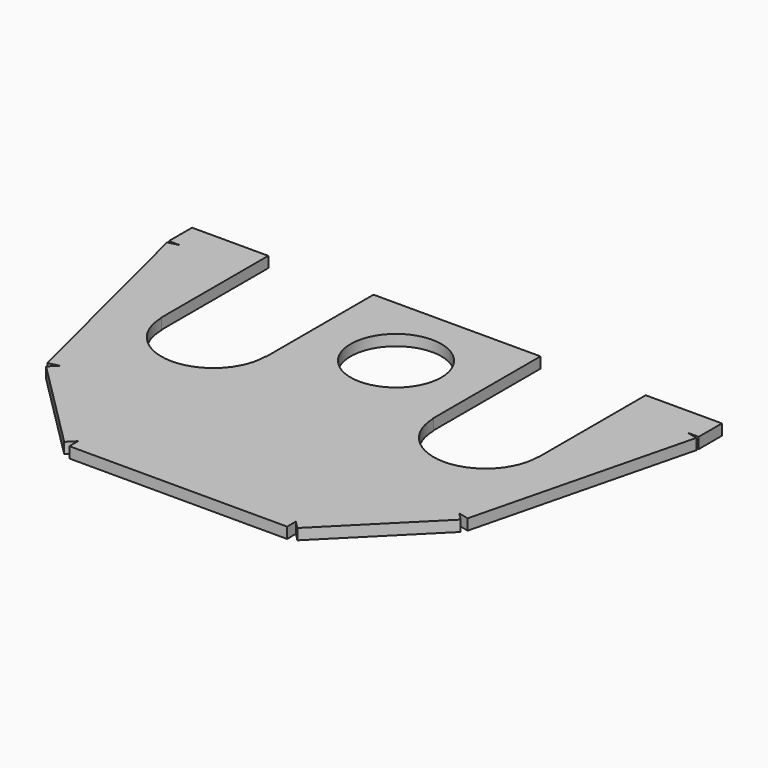
from build123d import *

# Parameters (mm, degrees)
F0_R      = 15.875
F1_DEPTH  = 3.81
F3_DEPTH  = 40.64
F4_DEPTH  = 3.81
F5_DEPTH  = 3.81
F6_DEPTH  = 3.81
F7_DEPTH  = 3.81
F8_DEPTH  = 3.81
F9_DEPTH  = 3.81
F10_DEPTH = 3.81


with BuildPart() as f1:
    # F0 (on Top) → F1 (new body)
    with BuildSketch(Plane.XY):
        with BuildLine():
            Line((-66.04, 50.8), (-88.9, 50.8))
            Line((-88.9, 50.8), (-88.9, 0))
            Line((-88.9, 0), (-69.85, -76.2))
            Line((-69.85, -76.2), (-38.1, -107.95))
            Line((-38.1, -107.95), (0, -107.95))
            Line((0, -107.95), (38.1, -107.95))
            Line((38.1, -107.95), (69.85, -76.2))
            Line((69.85, -76.2), (88.9, 0))
            Line((88.9, 0), (88.9, 50.8))
            Line((88.9, 50.8), (66.04, 50.8))
            Line((66.04, 50.8), (66.04, 1.27))
            Line((66.04, 1.27), (66.04, -36.83))
            Line((66.04, -36.83), (65.8662626902, -36.83))
            ThreePointArc((65.8662626902, -36.83), (47.625, -55.0712626902), (29.3837373098, -36.83))
            Line((29.3837373098, -36.83), (29.21, -36.83))
            Line((29.21, -36.83), (29.21, 1.27))
            Line((29.21, 1.27), (29.21, 50.8))
            Line((29.21, 50.8), (0, 50.8))
            Line((0, 50.8), (-29.21, 50.8))
            Line((-29.21, 50.8), (-29.21, 1.27))
            Line((-29.21, 1.27), (-29.21, -36.83))
            Line((-29.21, -36.83), (-29.3837373098, -36.83))
            ThreePointArc((-29.3837373098, -36.83), (-47.625, -55.0712626902), (-65.8662626902, -36.83))
            Line((-65.8662626902, -36.83), (-66.04, -36.83))
            Line((-66.04, -36.83), (-66.04, 1.27))
            Line((-66.04, 1.27), (-66.04, 50.8))
        make_face()
        with Locations((0, -16.51)):
            Circle(F0_R, mode=Mode.SUBTRACT)
    extrude(amount=F1_DEPTH)

    # F2: F1 across plane


with BuildPart() as f1_1:
    add(f1.part)
    add(f1.part.mirror(Plane.YZ), mode=Mode.INTERSECT)

    # F3 (cut): faces of the model
    f3_faces = [f1_1.faces().sort_by_distance(p)[0] for p in [
        (0, 50.8, 1.905),
        (77.47, 50.8, 1.905),
        (-77.47, 50.8, 1.905),
    ]]
    extrude(f3_faces, amount=-F3_DEPTH, mode=Mode.SUBTRACT)

    # F4 (add): a face of the model
    f4_faces = [f1_1.faces().sort_by_distance(p)[0] for p in [
        (0, -107.95, 1.905),
    ]]
    extrude(f4_faces, amount=F4_DEPTH)

    # F5 (add): a face of the model
    f5_faces = [f1_1.faces().sort_by_distance(p)[0] for p in [
        (-53.975, -92.075, 1.905),
    ]]
    extrude(f5_faces, amount=F5_DEPTH)

    # F6 (add): a face of the model
    f6_faces = [f1_1.faces().sort_by_distance(p)[0] for p in [
        (-79.375, -38.1, 1.905),
    ]]
    extrude(f6_faces, amount=F6_DEPTH)

    # F7 (add): a face of the model
    f7_faces = [f1_1.faces().sort_by_distance(p)[0] for p in [
        (-88.9, 5.08, 1.905),
    ]]
    extrude(f7_faces, amount=F7_DEPTH)

    # F8 (add): a face of the model
    f8_faces = [f1_1.faces().sort_by_distance(p)[0] for p in [
        (53.975, -92.075, 1.905),
    ]]
    extrude(f8_faces, amount=F8_DEPTH)

    # F9 (add): a face of the model
    f9_faces = [f1_1.faces().sort_by_distance(p)[0] for p in [
        (79.375, -38.1, 1.905),
    ]]
    extrude(f9_faces, amount=F9_DEPTH)

    # F10 (add): a face of the model
    f10_faces = [f1_1.faces().sort_by_distance(p)[0] for p in [
        (88.9, 5.08, 1.905),
    ]]
    extrude(f10_faces, amount=F10_DEPTH)


solid = f1_1.part
